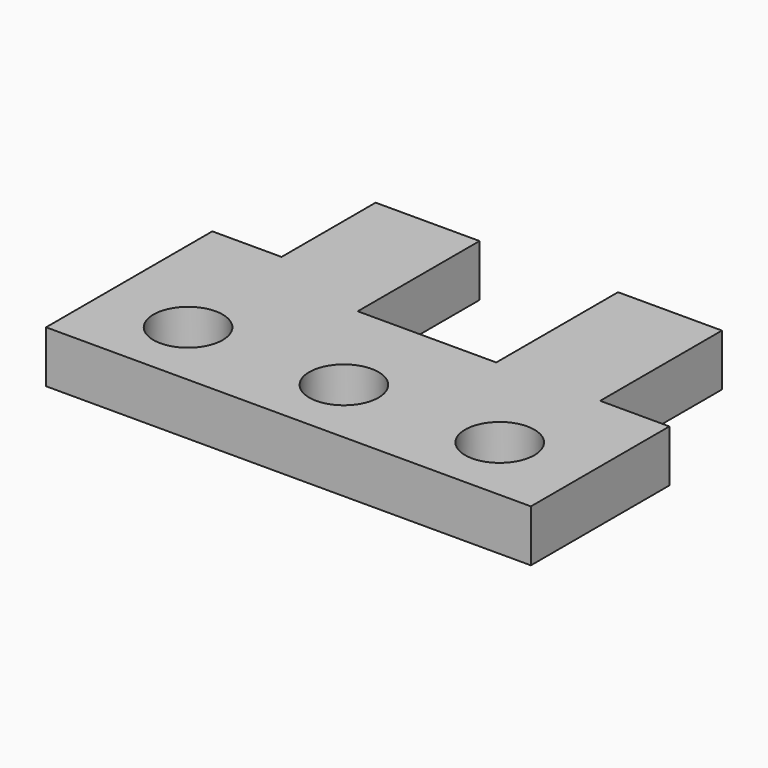
from build123d import *

# Parameters (mm, degrees)
F0_R     = 10
F1_DEPTH = 15


with BuildPart() as f1:
    # F0 (on Top) → F1 (new body)
    with BuildSketch(Plane.XY):
        Polygon((-140, 0), (0, 0), (0, 50), (-20, 50), (-20, 93.953955), (-50, 93.953955), (-50, 50), (-90, 50), (-90, 93.953955), (-120, 93.953955), (-120, 60), (-140, 60), align=None)
        with Locations((-115, 20)):
            Circle(F0_R, mode=Mode.SUBTRACT)
        with Locations((-70, 20)):
            Circle(F0_R, mode=Mode.SUBTRACT)
        with Locations((-25, 20)):
            Circle(F0_R, mode=Mode.SUBTRACT)
    extrude(amount=F1_DEPTH)


solid = f1.part
